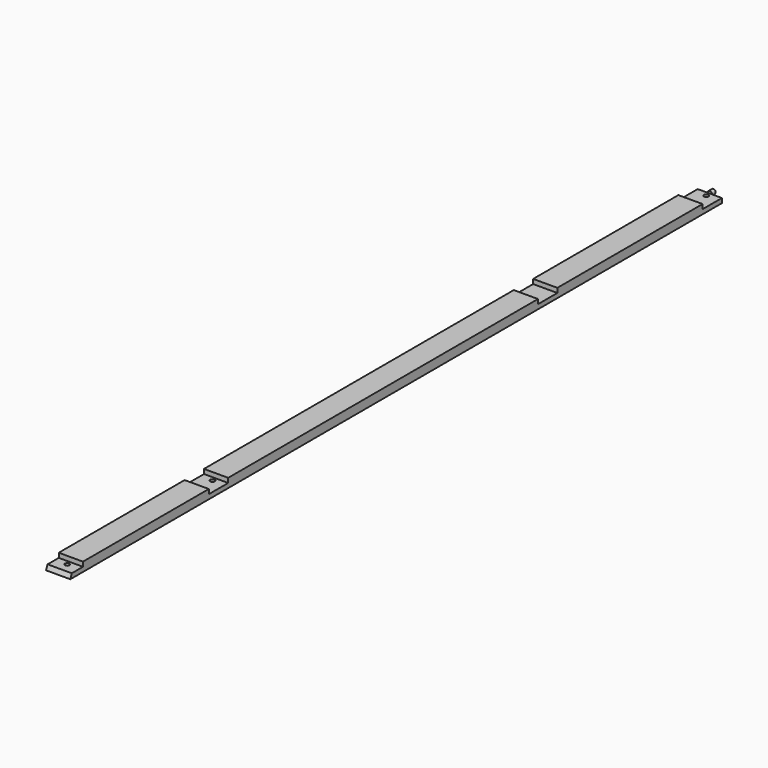
from build123d import *

# Parameters (mm, degrees)
F1_DEPTH = 25.4
F3_R     = 4.7625
F4_DEPTH = 9.525
F5_R     = 4.7625
F6_DEPTH = 25.4


with BuildPart() as f1:
    # F0 (on Right) → F1 (new body, symmetric)
    with BuildSketch(Plane.YZ):
        Polygon((-33.290768, -9.525), (1676.4, -9.525), (1676.4, 0), (1625.6, 0), (1625.6, 9.525), (1244.6, 9.525), (1244.6, 0), (1193.8, 0), (1193.8, 9.525), (381, 9.525), (381, 0), (330.2, 0), (330.2, 9.525), (0, 9.525), (0, 0), (-29.345384, 0), align=None)
    extrude(amount=F1_DEPTH, both=True)

    # F3 (on offset) → F4 (join)
    with BuildSketch(Plane.XZ.offset(-1676.4)):
        Circle(F3_R)
    extrude(amount=-F4_DEPTH)

    # F5 (on Top) → F6 (cut)
    with BuildSketch(Plane.XY):
        with Locations((0, 371.475)):
            Circle(F5_R)
        with Locations((0, 1203.325)):
            Circle(F5_R)
        with Locations((0, 1666.875)):
            Circle(F5_R)
        with Locations((0, -9.525)):
            Circle(F5_R)
    extrude(amount=-F6_DEPTH, mode=Mode.SUBTRACT)


solid = f1.part
